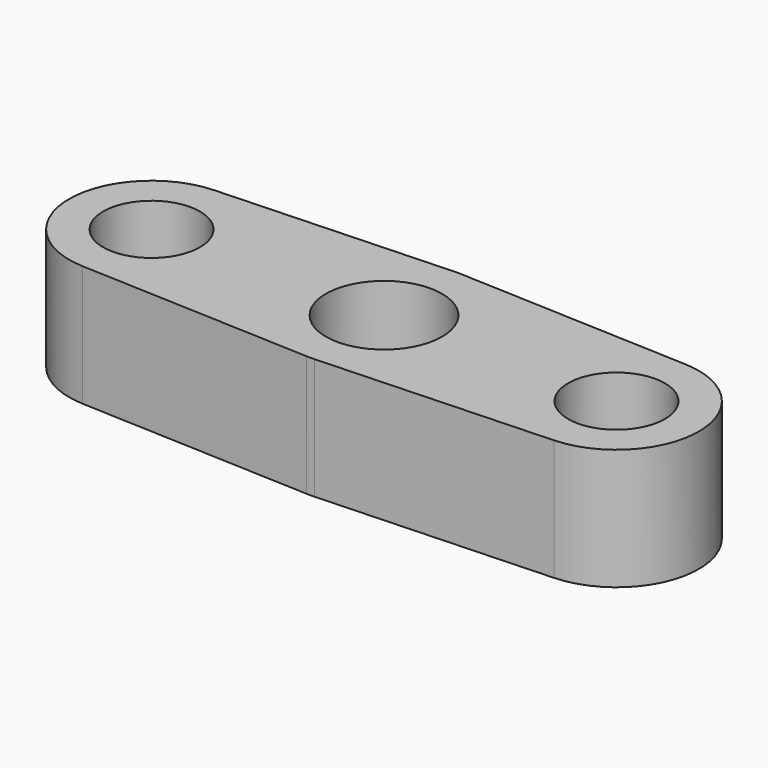
from build123d import *

# Parameters (mm, degrees)
PAD_DEPTH     = 25
SKETCH001_R   = 12
SKETCH001_R_2 = 10
POCKET_DEPTH  = 25


with BuildPart() as part:
    # Sketch → Pad (new body)
    with BuildSketch(Plane.XY):
        with BuildLine():
            ThreePointArc((-48.708302, 16.985238), (-65, 1.6e-05), (-48.708334, -16.985237))
            Line((-48.708334, -16.985237), (-0.791666, -18.9835))
            ThreePointArc((-0.791666, -18.9835), (0, -19), (0.791666, -18.9835))
            Line((0.791666, -18.9835), (48.708335, -16.985237))
            ThreePointArc((48.708335, -16.985237), (65, 1e-06), (48.708333, 16.985237))
            Line((0.791666, 18.9835), (48.708333, 16.985237))
            ThreePointArc((0.791666, 18.9835), (0, 19), (-0.791667, 18.9835))
            Line((-48.708302, 16.985238), (-0.791667, 18.9835))
        make_face()
    extrude(amount=PAD_DEPTH)

    # Sketch001 (on Face10 of Pad) → Pocket (cut)
    with BuildSketch(Plane.XY.offset(25)):
        Circle(SKETCH001_R)
        with Locations((48, 0)):
            Circle(SKETCH001_R_2)
        with Locations((-48, 0)):
            Circle(SKETCH001_R_2)
    extrude(amount=-POCKET_DEPTH, mode=Mode.SUBTRACT)


solid = part.part
